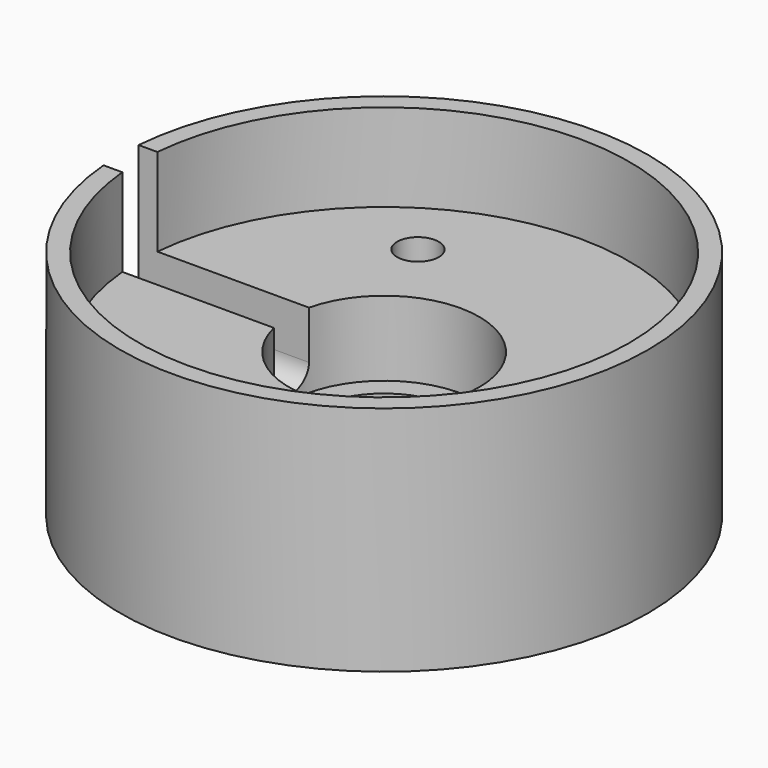
from build123d import *

# Parameters (mm, degrees)
F3_DEPTH = 25.4
F5_D     = 2.2606
F5_DEPTH = 5.715
F5_TIP   = 0.6791527577


with BuildPart() as f1:
    # F0 (on Front) → F1 (revolve)
    with BuildSketch(Plane.XZ):
        Polygon((14.330415332, -12.5857), (14.330415332, 0), (13.314415332, 0), (13.314415332, -4.7625), (5.1689, -4.7625), (5.1689, -8.8265), (4.0005, -8.8265), (4.0005, -11.6967), (0, -11.6967), (0, -12.5857), align=None)
    revolve(axis=Axis((0, 0, -12.1412), (0, 0, 1)))

    # F2 (on Right) → F3 (cut)
    with BuildSketch(Plane.YZ):
        with BuildLine():
            Line((-1.190625, 0), (-1.190625, -7.381875))
            ThreePointArc((-1.190625, -7.381875), (0, -8.5725), (1.190625, -7.381875))
            Line((1.190625, -7.381875), (1.190625, 0))
            Line((1.190625, 0), (-1.190625, 0))
        make_face()
    extrude(amount=-F3_DEPTH, mode=Mode.SUBTRACT)

    # F5
    with Locations(Plane.XY.offset(-4.7625)):
        with Locations((9.525, 0), (-4.7625, 8.248891971), (-4.7625, -8.248891971)):
            Hole(F5_D / 2, depth=F5_DEPTH)
            with Locations((0, 0, -(F5_DEPTH + F5_TIP / 2))):  # 118° drill point
                Cone(0, F5_D / 2, F5_TIP, mode=Mode.SUBTRACT)


solid = f1.part
